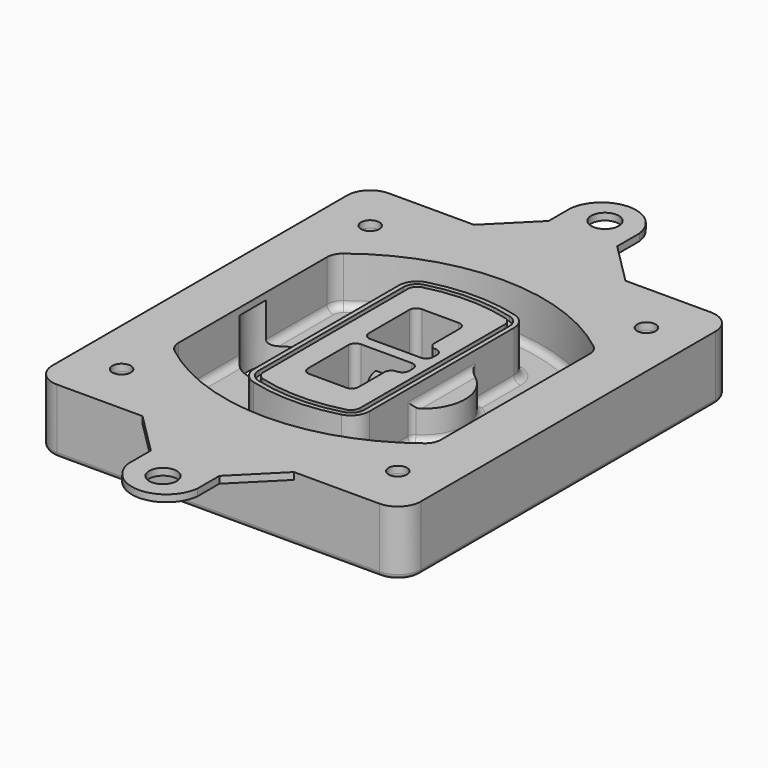
from build123d import *

# Parameters (mm, degrees)
F0_R      = 4
F1_DEPTH  = 25
F2_DEPTH  = 3
F3_DEPTH  = 18
F5_DEPTH  = 21
F6_DEPTH  = 2
F8_DEPTH  = 20
F9_DEPTH  = 16
F10_DEPTH = 25
F7_R      = 6
F7_R_2    = 4
F11_DEPTH = 6
F13_DEPTH = 9
F14_R     = 3
F15_R     = 2
F16_R     = 4
F16_R_2   = 6
F17_DEPTH = 3


with BuildPart() as f1:
    # F0 (on Top) → F1 (new body)
    with BuildSketch(Plane.XY):
        with BuildLine():
            ThreePointArc((-80, -80), (-77.0710678119, -87.0710678119), (-70, -90))
            Line((-70, -90), (70, -90))
            ThreePointArc((70, -90), (77.0710678119, -87.0710678119), (80, -80))
            Line((80, -80), (80, 80))
            ThreePointArc((80, 80), (77.0710678119, 87.0710678119), (70, 90))
            Line((70, 90), (-70, 90))
            ThreePointArc((-70, 90), (-77.0710678119, 87.0710678119), (-80, 80))
            Line((-80, 80), (-80, -80))
        make_face()
        with Locations((-60, -67.5)):
            Circle(F0_R, mode=Mode.SUBTRACT)
        with Locations((60, -67.5)):
            Circle(F0_R, mode=Mode.SUBTRACT)
        with Locations((-60, 67.5)):
            Circle(F0_R, mode=Mode.SUBTRACT)
        with BuildLine():
            ThreePointArc((-64, 40.2934422872), (-62.5820384798, 46.4328484224), (-58.6153846154, 51.3286200352))
            ThreePointArc((-58.6153846154, 51.3286200352), (0, 71.5), (58.6153846154, 51.3286200352))
            ThreePointArc((58.6153846154, 51.3286200352), (62.5820384798, 46.4328484224), (64, 40.2934422872))
            Line((64, 40.2934422872), (64, -40.2934422872))
            ThreePointArc((64, -40.2934422872), (62.5820384798, -46.4328484224), (58.6153846154, -51.3286200352))
            ThreePointArc((58.6153846154, -51.3286200352), (0, -71.5), (-58.6153846154, -51.3286200352))
            ThreePointArc((-58.6153846154, -51.3286200352), (-62.5820384798, -46.4328484224), (-64, -40.2934422872))
            Line((-64, -40.2934422872), (-64, 40.2934422872))
        make_face(mode=Mode.SUBTRACT)
        with Locations((60, 67.5)):
            Circle(F0_R, mode=Mode.SUBTRACT)
        with BuildLine():
            ThreePointArc((58.6153846154, 51.3286200352), (0, 71.5), (-58.6153846154, 51.3286200352))
            ThreePointArc((-58.6153846154, 51.3286200352), (-62.5820384798, 46.4328484224), (-64, 40.2934422872))
            Line((-64, 40.2934422872), (-64, -40.2934422872))
            ThreePointArc((-64, -40.2934422872), (-62.5820384798, -46.4328484224), (-58.6153846154, -51.3286200352))
            ThreePointArc((-58.6153846154, -51.3286200352), (0, -71.5), (58.6153846154, -51.3286200352))
            ThreePointArc((58.6153846154, -51.3286200352), (62.5820384798, -46.4328484224), (64, -40.2934422872))
            Line((64, -40.2934422872), (64, 40.2934422872))
            ThreePointArc((64, 40.2934422872), (62.5820384798, 46.4328484224), (58.6153846154, 51.3286200352))
        make_face()
        with BuildLine():
            Line((-60, -40.2934422872), (-60, 40.2934422872))
            ThreePointArc((-60, 40.2934422872), (-58.9871703427, 44.6787323838), (-56.1538461538, 48.1757121072))
            ThreePointArc((-56.1538461538, 48.1757121072), (0, 67.5), (56.1538461538, 48.1757121072))
            ThreePointArc((56.1538461538, 48.1757121072), (58.9871703427, 44.6787323838), (60, 40.2934422872))
            Line((60, 40.2934422872), (60, -40.2934422872))
            ThreePointArc((60, -40.2934422872), (58.9871703427, -44.6787323838), (56.1538461538, -48.1757121072))
            ThreePointArc((56.1538461538, -48.1757121072), (0, -67.5), (-56.1538461538, -48.1757121072))
            ThreePointArc((-56.1538461538, -48.1757121072), (-58.9871703427, -44.6787323838), (-60, -40.2934422872))
        make_face(mode=Mode.SUBTRACT)
        with BuildLine():
            ThreePointArc((-56.1538461538, 48.1757121072), (-58.9871703427, 44.6787323838), (-60, 40.2934422872))
            Line((-60, 40.2934422872), (-60, -40.2934422872))
            ThreePointArc((-60, -40.2934422872), (-58.9871703427, -44.6787323838), (-56.1538461538, -48.1757121072))
            ThreePointArc((-56.1538461538, -48.1757121072), (0, -67.5), (56.1538461538, -48.1757121072))
            ThreePointArc((56.1538461538, -48.1757121072), (58.9871703427, -44.6787323838), (60, -40.2934422872))
            Line((60, -40.2934422872), (60, 40.2934422872))
            ThreePointArc((60, 40.2934422872), (58.9871703427, 44.6787323838), (56.1538461538, 48.1757121072))
            ThreePointArc((56.1538461538, 48.1757121072), (0, 67.5), (-56.1538461538, 48.1757121072))
        make_face()
        with BuildLine():
            ThreePointArc((54.3076923077, 45.8110311612), (56.2910192399, 43.3631453548), (57, 40.2934422872))
            Line((57, 40.2934422872), (57, -40.2934422872))
            ThreePointArc((57, -40.2934422872), (56.2910192399, -43.3631453548), (54.3076923077, -45.8110311612))
            ThreePointArc((54.3076923077, -45.8110311612), (0, -64.5), (-54.3076923077, -45.8110311612))
            ThreePointArc((-54.3076923077, -45.8110311612), (-56.2910192399, -43.3631453548), (-57, -40.2934422872))
            Line((-57, -40.2934422872), (-57, 40.2934422872))
            ThreePointArc((-57, 40.2934422872), (-56.2910192399, 43.3631453548), (-54.3076923077, 45.8110311612))
            ThreePointArc((-54.3076923077, 45.8110311612), (0, 64.5), (54.3076923077, 45.8110311612))
        make_face(mode=Mode.SUBTRACT)
        with BuildLine():
            Line((57, -40.2934422872), (57, 40.2934422872))
            ThreePointArc((57, 40.2934422872), (56.2910192399, 43.3631453548), (54.3076923077, 45.8110311612))
            ThreePointArc((54.3076923077, 45.8110311612), (0, 64.5), (-54.3076923077, 45.8110311612))
            ThreePointArc((-54.3076923077, 45.8110311612), (-56.2910192399, 43.3631453548), (-57, 40.2934422872))
            Line((-57, 40.2934422872), (-57, -40.2934422872))
            ThreePointArc((-57, -40.2934422872), (-56.2910192399, -43.3631453548), (-54.3076923077, -45.8110311612))
            ThreePointArc((-54.3076923077, -45.8110311612), (0, -64.5), (54.3076923077, -45.8110311612))
            ThreePointArc((54.3076923077, -45.8110311612), (56.2910192399, -43.3631453548), (57, -40.2934422872))
        make_face()
    extrude(amount=-F1_DEPTH)

    # F0 (on Top) → F2 (join)
    with BuildSketch(Plane.XY):
        with BuildLine():
            ThreePointArc((-56.1538461538, 48.1757121072), (-58.9871703427, 44.6787323838), (-60, 40.2934422872))
            Line((-60, 40.2934422872), (-60, -40.2934422872))
            ThreePointArc((-60, -40.2934422872), (-58.9871703427, -44.6787323838), (-56.1538461538, -48.1757121072))
            ThreePointArc((-56.1538461538, -48.1757121072), (0, -67.5), (56.1538461538, -48.1757121072))
            ThreePointArc((56.1538461538, -48.1757121072), (58.9871703427, -44.6787323838), (60, -40.2934422872))
            Line((60, -40.2934422872), (60, 40.2934422872))
            ThreePointArc((60, 40.2934422872), (58.9871703427, 44.6787323838), (56.1538461538, 48.1757121072))
            ThreePointArc((56.1538461538, 48.1757121072), (0, 67.5), (-56.1538461538, 48.1757121072))
        make_face()
        with BuildLine():
            ThreePointArc((54.3076923077, 45.8110311612), (56.2910192399, 43.3631453548), (57, 40.2934422872))
            Line((57, 40.2934422872), (57, -40.2934422872))
            ThreePointArc((57, -40.2934422872), (56.2910192399, -43.3631453548), (54.3076923077, -45.8110311612))
            ThreePointArc((54.3076923077, -45.8110311612), (0, -64.5), (-54.3076923077, -45.8110311612))
            ThreePointArc((-54.3076923077, -45.8110311612), (-56.2910192399, -43.3631453548), (-57, -40.2934422872))
            Line((-57, -40.2934422872), (-57, 40.2934422872))
            ThreePointArc((-57, 40.2934422872), (-56.2910192399, 43.3631453548), (-54.3076923077, 45.8110311612))
            ThreePointArc((-54.3076923077, 45.8110311612), (0, 64.5), (54.3076923077, 45.8110311612))
        make_face(mode=Mode.SUBTRACT)
    extrude(amount=F2_DEPTH)

    # F0 (on Top) → F3 (cut)
    with BuildSketch(Plane.XY):
        with BuildLine():
            Line((57, -40.2934422872), (57, 40.2934422872))
            ThreePointArc((57, 40.2934422872), (56.2910192399, 43.3631453548), (54.3076923077, 45.8110311612))
            ThreePointArc((54.3076923077, 45.8110311612), (0, 64.5), (-54.3076923077, 45.8110311612))
            ThreePointArc((-54.3076923077, 45.8110311612), (-56.2910192399, 43.3631453548), (-57, 40.2934422872))
            Line((-57, 40.2934422872), (-57, -40.2934422872))
            ThreePointArc((-57, -40.2934422872), (-56.2910192399, -43.3631453548), (-54.3076923077, -45.8110311612))
            ThreePointArc((-54.3076923077, -45.8110311612), (0, -64.5), (54.3076923077, -45.8110311612))
            ThreePointArc((54.3076923077, -45.8110311612), (56.2910192399, -43.3631453548), (57, -40.2934422872))
        make_face()
    extrude(amount=-F3_DEPTH, mode=Mode.SUBTRACT)

    # F4 (on face) → F5 (join, through all)
    with BuildSketch(Plane.XY.offset(3)):
        with BuildLine():
            ThreePointArc((-25, -39.2465276821), (-23.3511545998, -44.1109737193), (-19.0842911877, -46.9702398883))
            ThreePointArc((-19.0842911877, -46.9702398883), (0, -49.5), (19.0842911877, -46.9702398883))
            ThreePointArc((19.0842911877, -46.9702398883), (23.3511545998, -44.1109737193), (25, -39.2465276821))
            Line((25, -39.2465276821), (25, 39.2465276821))
            ThreePointArc((25, 39.2465276821), (23.3511545998, 44.1109737193), (19.0842911877, 46.9702398883))
            ThreePointArc((19.0842911877, 46.9702398883), (0, 49.5), (-19.0842911877, 46.9702398883))
            ThreePointArc((-19.0842911877, 46.9702398883), (-23.3511545998, 44.1109737193), (-25, 39.2465276821))
            Line((-25, 39.2465276821), (-25, -39.2465276821))
        make_face()
        with BuildLine():
            ThreePointArc((18.5632183908, 45.0393118368), (21.7633659499, 42.89486221), (23, 39.2465276821))
            Line((23, 39.2465276821), (23, -39.2465276821))
            ThreePointArc((23, -39.2465276821), (21.7633659499, -42.89486221), (18.5632183908, -45.0393118368))
            ThreePointArc((18.5632183908, -45.0393118368), (0, -47.5), (-18.5632183908, -45.0393118368))
            ThreePointArc((-18.5632183908, -45.0393118368), (-21.7633659499, -42.89486221), (-23, -39.2465276821))
            Line((-23, -39.2465276821), (-23, 39.2465276821))
            ThreePointArc((-23, 39.2465276821), (-21.7633659499, 42.89486221), (-18.5632183908, 45.0393118368))
            ThreePointArc((-18.5632183908, 45.0393118368), (0, 47.5), (18.5632183908, 45.0393118368))
        make_face(mode=Mode.SUBTRACT)
        with BuildLine():
            Line((23, -39.2465276821), (23, 39.2465276821))
            ThreePointArc((23, 39.2465276821), (21.7633659499, 42.89486221), (18.5632183908, 45.0393118368))
            ThreePointArc((18.5632183908, 45.0393118368), (0, 47.5), (-18.5632183908, 45.0393118368))
            ThreePointArc((-18.5632183908, 45.0393118368), (-21.7633659499, 42.89486221), (-23, 39.2465276821))
            Line((-23, 39.2465276821), (-23, -39.2465276821))
            ThreePointArc((-23, -39.2465276821), (-21.7633659499, -42.89486221), (-18.5632183908, -45.0393118368))
            ThreePointArc((-18.5632183908, -45.0393118368), (0, -47.5), (18.5632183908, -45.0393118368))
            ThreePointArc((18.5632183908, -45.0393118368), (21.7633659499, -42.89486221), (23, -39.2465276821))
        make_face()
        with BuildLine():
            ThreePointArc((18.0421455939, 43.1083837852), (20.1755772999, 41.6787507007), (21, 39.2465276821))
            Line((21, 39.2465276821), (21, -39.2465276821))
            ThreePointArc((21, -39.2465276821), (20.1755772999, -41.6787507007), (18.0421455939, -43.1083837852))
            ThreePointArc((18.0421455939, -43.1083837852), (0, -45.5), (-18.0421455939, -43.1083837852))
            ThreePointArc((-18.0421455939, -43.1083837852), (-20.1755772999, -41.6787507007), (-21, -39.2465276821))
            Line((-21, -39.2465276821), (-21, 39.2465276821))
            ThreePointArc((-21, 39.2465276821), (-20.1755772999, 41.6787507007), (-18.0421455939, 43.1083837852))
            ThreePointArc((-18.0421455939, 43.1083837852), (0, 45.5), (18.0421455939, 43.1083837852))
        make_face(mode=Mode.SUBTRACT)
        with BuildLine():
            Line((21, -39.2465276821), (21, 39.2465276821))
            ThreePointArc((21, 39.2465276821), (20.1755772999, 41.6787507007), (18.0421455939, 43.1083837852))
            ThreePointArc((18.0421455939, 43.1083837852), (0, 45.5), (-18.0421455939, 43.1083837852))
            ThreePointArc((-18.0421455939, 43.1083837852), (-20.1755772999, 41.6787507007), (-21, 39.2465276821))
            Line((-21, 39.2465276821), (-21, -39.2465276821))
            ThreePointArc((-21, -39.2465276821), (-20.1755772999, -41.6787507007), (-18.0421455939, -43.1083837852))
            ThreePointArc((-18.0421455939, -43.1083837852), (0, -45.5), (18.0421455939, -43.1083837852))
            ThreePointArc((18.0421455939, -43.1083837852), (20.1755772999, -41.6787507007), (21, -39.2465276821))
        make_face()
        with BuildLine():
            Line((-8, -2.5), (14, -2.5))
            ThreePointArc((14, -2.5), (16.1213203436, -3.3786796564), (17, -5.5))
            Line((17, -5.5), (17, -7.5))
            ThreePointArc((17, -7.5), (16.1213203436, -9.6213203436), (14, -10.5))
            ThreePointArc((14, -10.5), (11.8786796564, -11.3786796564), (11, -13.5))
            Line((11, -13.5), (11, -27.5))
            ThreePointArc((11, -27.5), (10.1213203436, -29.6213203436), (8, -30.5))
            Line((8, -30.5), (-8, -30.5))
            ThreePointArc((-8, -30.5), (-10.1213203436, -29.6213203436), (-11, -27.5))
            Line((-11, -27.5), (-11, -5.5))
            ThreePointArc((-11, -5.5), (-10.1213203436, -3.3786796564), (-8, -2.5))
        make_face(mode=Mode.SUBTRACT)
        with BuildLine():
            ThreePointArc((-8, 2.5), (-10.1213203436, 3.3786796564), (-11, 5.5))
            Line((-11, 5.5), (-11, 27.5))
            ThreePointArc((-11, 27.5), (-10.1213203436, 29.6213203436), (-8, 30.5))
            Line((-8, 30.5), (8, 30.5))
            ThreePointArc((8, 30.5), (10.1213203436, 29.6213203436), (11, 27.5))
            Line((11, 27.5), (11, 13.5))
            ThreePointArc((11, 13.5), (11.8786796564, 11.3786796564), (14, 10.5))
            ThreePointArc((14, 10.5), (16.1213203436, 9.6213203436), (17, 7.5))
            Line((17, 7.5), (17, 5.5))
            ThreePointArc((17, 5.5), (16.1213203436, 3.3786796564), (14, 2.5))
            Line((14, 2.5), (-8, 2.5))
        make_face(mode=Mode.SUBTRACT)
    extrude(amount=-F5_DEPTH)

    # F4 (on face) → F6 (cut)
    with BuildSketch(Plane.XY.offset(3)):
        with BuildLine():
            Line((23, -39.2465276821), (23, 39.2465276821))
            ThreePointArc((23, 39.2465276821), (21.7633659499, 42.89486221), (18.5632183908, 45.0393118368))
            ThreePointArc((18.5632183908, 45.0393118368), (0, 47.5), (-18.5632183908, 45.0393118368))
            ThreePointArc((-18.5632183908, 45.0393118368), (-21.7633659499, 42.89486221), (-23, 39.2465276821))
            Line((-23, 39.2465276821), (-23, -39.2465276821))
            ThreePointArc((-23, -39.2465276821), (-21.7633659499, -42.89486221), (-18.5632183908, -45.0393118368))
            ThreePointArc((-18.5632183908, -45.0393118368), (0, -47.5), (18.5632183908, -45.0393118368))
            ThreePointArc((18.5632183908, -45.0393118368), (21.7633659499, -42.89486221), (23, -39.2465276821))
        make_face()
        with BuildLine():
            ThreePointArc((18.0421455939, 43.1083837852), (20.1755772999, 41.6787507007), (21, 39.2465276821))
            Line((21, 39.2465276821), (21, -39.2465276821))
            ThreePointArc((21, -39.2465276821), (20.1755772999, -41.6787507007), (18.0421455939, -43.1083837852))
            ThreePointArc((18.0421455939, -43.1083837852), (0, -45.5), (-18.0421455939, -43.1083837852))
            ThreePointArc((-18.0421455939, -43.1083837852), (-20.1755772999, -41.6787507007), (-21, -39.2465276821))
            Line((-21, -39.2465276821), (-21, 39.2465276821))
            ThreePointArc((-21, 39.2465276821), (-20.1755772999, 41.6787507007), (-18.0421455939, 43.1083837852))
            ThreePointArc((-18.0421455939, 43.1083837852), (0, 45.5), (18.0421455939, 43.1083837852))
        make_face(mode=Mode.SUBTRACT)
    extrude(amount=-F6_DEPTH, mode=Mode.SUBTRACT)

    # F7 (on face) → F8 (join)
    with BuildSketch(Plane(origin=(0, 0, -25), x_dir=(1, 0, 0), z_dir=(0, 0, -1))):
        with BuildLine():
            ThreePointArc((3.28842436, 0), (16.7567035675, 13.4682792075), (30.224982775, 0))
            Line((30.224982775, 0), (35.224982775, 0))
            ThreePointArc((35.224982775, 0), (16.7567035675, 18.4682792075), (-1.71157564, 0))
            Line((-1.71157564, 0), (3.28842436, 0))
        make_face()
        with BuildLine():
            Line((3.28842436, 0), (30.224982775, 0))
            ThreePointArc((30.224982775, 0), (16.7567035675, 13.4682792075), (3.28842436, 0))
        make_face()
        with BuildLine():
            ThreePointArc((3.28842436, 0), (16.7567035675, -13.4682792075), (30.224982775, 0))
            Line((30.224982775, 0), (3.28842436, 0))
        make_face()
        with BuildLine():
            Line((35.224982775, 0), (30.224982775, 0))
            ThreePointArc((30.224982775, 0), (16.7567035675, -13.4682792075), (3.28842436, 0))
            Line((3.28842436, 0), (-1.71157564, 0))
            ThreePointArc((-1.71157564, 0), (16.7567035675, -18.4682792075), (35.224982775, 0))
        make_face()
    extrude(amount=-F8_DEPTH)

    # F7 (on face) → F9 (cut)
    with BuildSketch(Plane(origin=(0, 0, -25), x_dir=(1, 0, 0), z_dir=(0, 0, -1))):
        with BuildLine():
            Line((3.28842436, 0), (30.224982775, 0))
            ThreePointArc((30.224982775, 0), (16.7567035675, 13.4682792075), (3.28842436, 0))
        make_face()
        with BuildLine():
            ThreePointArc((3.28842436, 0), (16.7567035675, -13.4682792075), (30.224982775, 0))
            Line((30.224982775, 0), (3.28842436, 0))
        make_face()
    extrude(amount=-F9_DEPTH, mode=Mode.SUBTRACT)

    # F7 (on face) → F10 (cut)
    with BuildSketch(Plane(origin=(0, 0, -25), x_dir=(1, 0, 0), z_dir=(0, 0, -1))):
        with BuildLine():
            Line((-59.0318229325, 0), (-32.0952645175, 0))
            ThreePointArc((-32.0952645175, 0), (-45.563543725, 13.4682792075), (-59.0318229325, 0))
        make_face()
        with BuildLine():
            ThreePointArc((-59.0318229325, 0), (-45.563543725, -13.4682792075), (-32.0952645175, 0))
            Line((-32.0952645175, 0), (-59.0318229325, 0))
        make_face()
    extrude(amount=-F10_DEPTH, mode=Mode.SUBTRACT)

    # F7 (on face) → F11 (cut)
    with BuildSketch(Plane(origin=(0, 0, -25), x_dir=(1, 0, 0), z_dir=(0, 0, -1))):
        with Locations((60, -67.5)):
            Circle(F7_R)
        with Locations((60, -67.5)):
            Circle(F7_R_2, mode=Mode.SUBTRACT)
        with Locations((60, -67.5)):
            Circle(F7_R)
        with Locations((60, -67.5)):
            Circle(F7_R_2, mode=Mode.SUBTRACT)
        with Locations((-60, -67.5)):
            Circle(F7_R)
        with Locations((-60, -67.5)):
            Circle(F7_R_2, mode=Mode.SUBTRACT)
        with Locations((-60, -67.5)):
            Circle(F7_R)
        with Locations((-60, -67.5)):
            Circle(F7_R_2, mode=Mode.SUBTRACT)
        with Locations((-60, 67.5)):
            Circle(F7_R)
        with Locations((-60, 67.5)):
            Circle(F7_R_2, mode=Mode.SUBTRACT)
        with Locations((-60, 67.5)):
            Circle(F7_R)
        with Locations((-60, 67.5)):
            Circle(F7_R_2, mode=Mode.SUBTRACT)
        with Locations((60, 67.5)):
            Circle(F7_R)
        with Locations((60, 67.5)):
            Circle(F7_R_2, mode=Mode.SUBTRACT)
        with Locations((60, 67.5)):
            Circle(F7_R)
        with Locations((60, 67.5)):
            Circle(F7_R_2, mode=Mode.SUBTRACT)
    extrude(amount=-F11_DEPTH, mode=Mode.SUBTRACT)

    # F12 (on face) → F13 (cut, through all)
    with BuildSketch(Plane(origin=(0, 0, -9), x_dir=(1, 0, 0), z_dir=(0, 0, -1))):
        with BuildLine():
            Line((11, 13.5), (11, 17.5481537753))
            ThreePointArc((11, 17.5481537753), (2.5696536419, 11.8239143813), (-1.5415842455, 2.5))
            Line((-1.5415842455, 2.5), (3.5224848595, 2.5))
            ThreePointArc((3.5224848595, 2.5), (6.1857188154, 8.3455872281), (11.2536447004, 12.2927168648))
            ThreePointArc((11.2536447004, 12.2927168648), (11.0640958889, 12.8831798879), (11, 13.5))
        make_face()
        with BuildLine():
            ThreePointArc((11.2536447004, -12.2927168648), (6.1857188154, -8.3455872281), (3.5224848595, -2.5))
            Line((3.5224848595, -2.5), (-1.5415842455, -2.5))
            ThreePointArc((-1.5415842455, -2.5), (2.5696536419, -11.8239143813), (11, -17.5481537753))
            Line((11, -17.5481537753), (11, -13.5))
            ThreePointArc((11, -13.5), (11.0640958889, -12.8831798879), (11.2536447004, -12.2927168648))
        make_face()
        with BuildLine():
            ThreePointArc((11.2536447004, 12.2927168648), (6.1857188154, 8.3455872281), (3.5224848595, 2.5))
            Line((3.5224848595, 2.5), (14, 2.5))
            ThreePointArc((14, 2.5), (16.1213203436, 3.3786796564), (17, 5.5))
            Line((17, 5.5), (17, 7.5))
            ThreePointArc((17, 7.5), (16.1213203436, 9.6213203436), (14, 10.5))
            ThreePointArc((14, 10.5), (12.3601599782, 10.9878446101), (11.2536447004, 12.2927168648))
        make_face()
        with BuildLine():
            Line((14, -2.5), (3.5224848595, -2.5))
            ThreePointArc((3.5224848595, -2.5), (6.1857188154, -8.3455872281), (11.2536447004, -12.2927168648))
            ThreePointArc((11.2536447004, -12.2927168648), (12.3601599782, -10.9878446101), (14, -10.5))
            ThreePointArc((14, -10.5), (16.1213203436, -9.6213203436), (17, -7.5))
            Line((17, -7.5), (17, -5.5))
            ThreePointArc((17, -5.5), (16.1213203436, -3.3786796564), (14, -2.5))
        make_face()
    extrude(amount=F13_DEPTH, mode=Mode.SUBTRACT)

    # F14
    f14_edges = [f1.edges().sort_by_distance(p)[0] for p in [
        (-57, -23.703476, -18),
        (-57, 23.703476, -18),
        (25, 0, -5),
        (25, 16.526506, -11.5),
        (25, -16.526506, -11.5),
        (25, -27.886517, -18),
        (35.224983, 0, -18),
    ]]
    fillet(f14_edges, radius=F14_R)

    # F15
    f15_edges = [f1.edges().sort_by_distance(p)[0] for p in [
        (0, -90, -25),
    ]]
    fillet(f15_edges, radius=F15_R)

    # F16 (on face) → F17 (join, through all)
    with BuildSketch(Plane.XY):
        with BuildLine():
            Line((0, 90), (-32.8854009764, 90))
            Line((-32.8854009764, 90), (-70, 90))
            ThreePointArc((-70, 90), (-77.0710678119, 87.0710678119), (-80, 80))
            Line((-80, 80), (-80, -80))
            ThreePointArc((-80, -80), (-77.0710678119, -87.0710678119), (-70, -90))
            Line((-70, -90), (-32.8854009764, -90))
            Line((-32.8854009764, -90), (0, -90))
            Line((0, -90), (32.8854009764, -90))
            Line((32.8854009764, -90), (70, -90))
            ThreePointArc((70, -90), (77.0710678119, -87.0710678119), (80, -80))
            Line((80, -80), (80, 80))
            ThreePointArc((80, 80), (77.0710678119, 87.0710678119), (70, 90))
            Line((70, 90), (32.8854009764, 90))
            Line((32.8854009764, 90), (0, 90))
        make_face()
        with Locations((-60, -67.5)):
            Circle(F16_R, mode=Mode.SUBTRACT)
        with Locations((60, -67.5)):
            Circle(F16_R, mode=Mode.SUBTRACT)
        with Locations((-60, 67.5)):
            Circle(F16_R, mode=Mode.SUBTRACT)
        with BuildLine():
            ThreePointArc((-60, 40.2934422872), (-58.9871703427, 44.6787323838), (-56.1538461538, 48.1757121072))
            ThreePointArc((-56.1538461538, 48.1757121072), (0, 67.5), (56.1538461538, 48.1757121072))
            ThreePointArc((56.1538461538, 48.1757121072), (58.9871703427, 44.6787323838), (60, 40.2934422872))
            Line((60, 40.2934422872), (60, -40.2934422872))
            ThreePointArc((60, -40.2934422872), (58.9871703427, -44.6787323838), (56.1538461538, -48.1757121072))
            ThreePointArc((56.1538461538, -48.1757121072), (0, -67.5), (-56.1538461538, -48.1757121072))
            ThreePointArc((-56.1538461538, -48.1757121072), (-58.9871703427, -44.6787323838), (-60, -40.2934422872))
            Line((-60, -40.2934422872), (-60, 40.2934422872))
        make_face(mode=Mode.SUBTRACT)
        with Locations((60, 67.5)):
            Circle(F16_R, mode=Mode.SUBTRACT)
        with BuildLine():
            Line((-14.8854009764, 108), (-32.8854009764, 90))
            Line((-32.8854009764, 90), (0, 90))
            Line((0, 90), (32.8854009764, 90))
            Line((32.8854009764, 90), (14.8854009764, 108))
            Line((14.8854009764, 108), (14.8854009764, 120))
            ThreePointArc((14.8854009764, 120), (0, 133.149368278), (-14.8854009764, 120))
            Line((-14.8854009764, 120), (-14.8854009764, 108))
        make_face()
        with Locations((0, 120)):
            Circle(F16_R_2, mode=Mode.SUBTRACT)
        with BuildLine():
            Line((0, -90), (-32.8854009764, -90))
            Line((-32.8854009764, -90), (-14.8854009764, -108))
            Line((-14.8854009764, -108), (-14.8854009764, -120))
            ThreePointArc((-14.8854009764, -120), (0, -133.149368278), (14.8854009764, -120))
            Line((14.8854009764, -120), (14.8854009764, -108))
            Line((14.8854009764, -108), (32.8854009764, -90))
            Line((32.8854009764, -90), (0, -90))
        make_face()
        with Locations((0, -120)):
            Circle(F16_R_2, mode=Mode.SUBTRACT)
    extrude(amount=F17_DEPTH)


solid = f1.part
